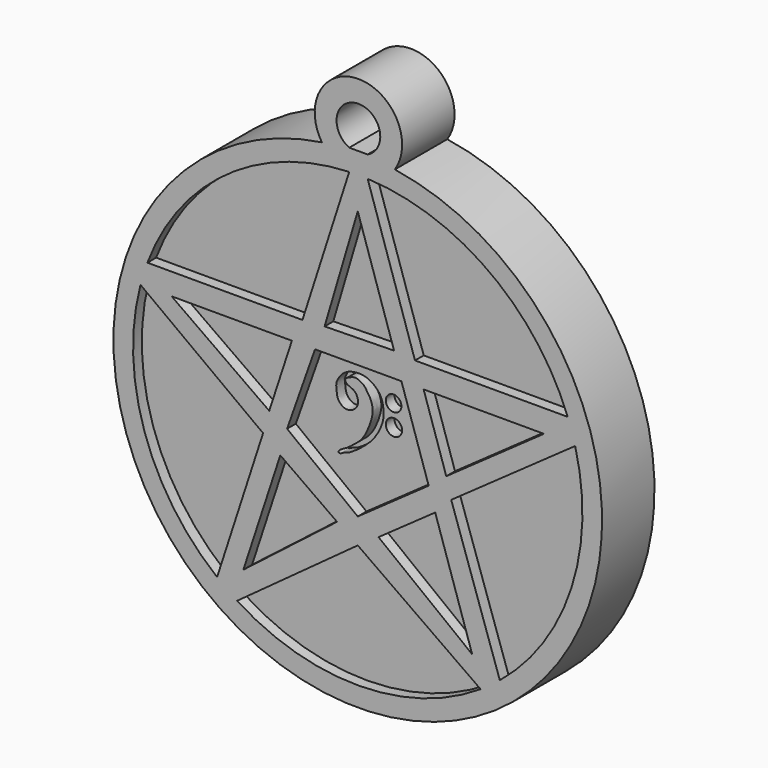
from build123d import *

# Parameters (mm, degrees)
F0_R     = 0.7479592016
F0_R_2   = 0.7154556478
F1_DEPTH = 5
F2_DEPTH = 6
F3_DEPTH = 4


with BuildPart() as f1:
    # F0 (on Front) → F1 (new body)
    with BuildSketch(Plane.XZ):
        with BuildLine():
            ThreePointArc((-19.1059168052, 44.601797374), (-22.4284686377, 50.813886651), (-25.7823659332, 44.6186645568))
            ThreePointArc((-25.7823659332, 44.6186645568), (-22.5564916994, 0.1391847961), (-19.1059168052, 44.601797374))
        make_face()
        with BuildLine():
            ThreePointArc((-35.3737242613, 6.4650089014), (-42.0302013856, 16.0637783035), (-42.3847366474, 27.7393667893))
            Line((-42.3847366474, 27.7393667893), (-31.1639953467, 19.4349084049))
            Line((-31.1639953467, 19.4349084049), (-35.3737242613, 6.4650089014))
        make_face(mode=Mode.SUBTRACT)
        Polygon((-39.5360679381, 27.7393667893), (-28.5291355848, 27.7393667893), (-30.6005839361, 21.4172078039), align=None, mode=Mode.SUBTRACT)
        Polygon((-29.5883324513, 18.1647339323), (-24.3974999338, 14.492043294), (-32.9701682877, 7.8432099579), align=None, mode=Mode.SUBTRACT)
        with BuildLine():
            ThreePointArc((-11.2579042464, 5.2817248554), (-22.3822039471, 1.9369301908), (-33.5440937819, 5.1540578687))
            Line((-33.5440937819, 5.1540578687), (-22.5, 13.2103506476))
            Line((-22.5, 13.2103506476), (-11.2579042464, 5.2817248554))
        make_face(mode=Mode.SUBTRACT)
        Polygon((-12.0298317123, 7.8432099579), (-20.6025000662, 14.492043294), (-15.4116675487, 18.1647339323), align=None, mode=Mode.SUBTRACT)
        Polygon((-16.0104798027, 20.1302143785), (-22.5, 15.5386580154), (-28.967153281, 20.5017030239), (-26.4105990855, 27.7393667893), (-18.5036101167, 27.7393667893), align=None, mode=Mode.SUBTRACT)
        with BuildLine():
            ThreePointArc((-2.6021278232, 27.6892580129), (-2.9520760141, 16.1178072945), (-9.4976208394, 6.5691540698))
            Line((-9.4976208394, 6.5691540698), (-13.9463264495, 19.6628514677))
            Line((-13.9463264495, 19.6628514677), (-2.6021278232, 27.6892580129))
        make_face(mode=Mode.SUBTRACT)
        Polygon((-14.3994160639, 21.4172078039), (-16.4708644152, 27.7393667893), (-5.4639320619, 27.7393667893), align=None, mode=Mode.SUBTRACT)
        with BuildLine():
            ThreePointArc((-41.7518326466, 29.7263860703), (-34.5291002687, 39.1779633833), (-23.2810519253, 43.0485686552))
            Line((-23.2810519253, 43.0485686552), (-27.5616962463, 29.7263860703))
            Line((-27.5616962463, 29.7263860703), (-41.7518326466, 29.7263860703))
        make_face(mode=Mode.SUBTRACT)
        Polygon((-19.1760000154, 29.9831019124), (-25.5359429866, 29.8663973808), (-22.5, 40.128108114), align=None, mode=Mode.SUBTRACT)
        with BuildLine():
            ThreePointArc((-21.596096248, 43.0435311934), (-10.4589160289, 39.1693135038), (-3.281187186, 29.8137507415))
            Line((-3.281187186, 29.8137507415), (-17.2613734154, 29.8137507415))
            Line((-17.2613734154, 29.8137507415), (-21.596096248, 43.0435311934))
        make_face(mode=Mode.SUBTRACT)
        with BuildLine():
            ThreePointArc((-23.2810519253, 45), (-22.4385740867, 48.813899416), (-21.596096248, 45))
            Line((-21.596096248, 45), (-23.2810519253, 45))
        make_face(mode=Mode.SUBTRACT)
        with BuildLine():
            Line((-27.5616962463, 29.7263860703), (-23.2810519253, 43.0485686552))
            ThreePointArc((-23.2810519253, 43.0485686552), (-34.5291002687, 39.1779633833), (-41.7518326466, 29.7263860703))
            Line((-41.7518326466, 29.7263860703), (-27.5616962463, 29.7263860703))
        make_face()
        with BuildLine():
            Line((-17.2613734154, 29.8137507415), (-3.281187186, 29.8137507415))
            ThreePointArc((-3.281187186, 29.8137507415), (-10.4589160289, 39.1693135038), (-21.596096248, 43.0435311934))
            Line((-21.596096248, 43.0435311934), (-17.2613734154, 29.8137507415))
        make_face()
        with BuildLine():
            Line((-13.9463264495, 19.6628514677), (-9.4976208394, 6.5691540698))
            ThreePointArc((-9.4976208394, 6.5691540698), (-2.9520760141, 16.1178072945), (-2.6021278232, 27.6892580129))
            Line((-2.6021278232, 27.6892580129), (-13.9463264495, 19.6628514677))
        make_face()
        with BuildLine():
            Line((-31.1639953467, 19.4349084049), (-42.3847366474, 27.7393667893))
            ThreePointArc((-42.3847366474, 27.7393667893), (-42.0302013856, 16.0637783035), (-35.3737242613, 6.4650089014))
            Line((-35.3737242613, 6.4650089014), (-31.1639953467, 19.4349084049))
        make_face()
        with BuildLine():
            Line((-22.5, 13.2103506476), (-33.5440937819, 5.1540578687))
            ThreePointArc((-33.5440937819, 5.1540578687), (-22.3822039471, 1.9369301908), (-11.2579042464, 5.2817248554))
            Line((-11.2579042464, 5.2817248554), (-22.5, 13.2103506476))
        make_face()
        Polygon((-28.967153281, 20.5017030239), (-22.5, 15.5386580154), (-16.0104798027, 20.1302143785), (-18.5036101167, 27.7393667893), (-26.4105990855, 27.7393667893), align=None)
        with BuildLine():
            add(Edge.make_bspline(
                [(-24.1368897259, 25.7977508008), (-24.0192526664, 25.8547602817), (-23.8206951319, 25.9246981149), (-23.4993709237, 26.035264187), (-22.9118502468, 25.7752706065), (-22.6454139435, 25.5452303422), (-22.2695101158, 24.9694677434), (-22.0277491804, 24.546582719), (-21.9130452886, 23.9094929922), (-21.9513966063, 23.5295958586), (-22.0803883734, 22.8741580146), (-22.6121756403, 21.5801117775), (-23.1940389074, 20.9128444702), (-23.7773781953, 20.4703212241), (-24.3564861124, 19.9975043004), (-25.1148150446, 19.6823758793), (-25.0057622775, 19.3161669868), (-24.46480957, 19.7003306914), (-24.1763038032, 19.6457608485), (-22.5233429796, 20.7864962244), (-21.4327424976, 22.0526293772), (-20.8511128391, 23.5323004136), (-20.970949499, 24.5869666942), (-21.1707513877, 25.3307861717), (-21.8953561674, 26.0982333692), (-22.6989218202, 26.4332313934), (-23.3527478288, 26.4477425249), (-23.9777412447, 26.3556629823), (-24.4377100211, 26.1233476831), (-24.7943158394, 25.854675352), (-25.1025725665, 25.3944840878), (-25.3094748751, 24.9669434146), (-25.22914595, 24.3460425378), (-25.1803259356, 23.7698675478), (-24.7525997744, 23.2849589824), (-24.2410315704, 23.1173649804), (-23.5831143232, 23.3328771925), (-23.2015674218, 23.9382897559), (-23.3224948624, 24.536914912), (-23.5908050552, 24.9136124499), (-23.9778820676, 25.0797645038), (-24.2789970507, 25.1952998813), (-24.411275591, 25.3540581553), (-24.5097889288, 25.5910854375), (-24.2621743389, 25.7370351491), (-24.1368897259, 25.7977508008)],
                knots=[0, 0, 0, 0, 0.0173962531, 0.0342740902, 0.0573082931, 0.0755347102, 0.0996042031, 0.1210693965, 0.1443872224, 0.1625076754, 0.186529852, 0.2218263186, 0.2499832154, 0.27485898, 0.3015437244, 0.3271293918, 0.3393392565, 0.3609389604, 0.3774540175, 0.4179104228, 0.4581642864, 0.4947647039, 0.5247635473, 0.5505216211, 0.580539966, 0.60808793, 0.6319530915, 0.6554250636, 0.6765417388, 0.6963148145, 0.7182156124, 0.7385178801, 0.7616697228, 0.7843150308, 0.8073555091, 0.828578249, 0.8524486773, 0.8766600199, 0.8991917039, 0.9190268914, 0.9381939111, 0.9548815349, 0.9682308397, 0.9814728212, 1, 1, 1, 1], degree=3))
        make_face(mode=Mode.SUBTRACT)
        with Locations((-19.9897103012, 23.1271144003)):
            Circle(F0_R, mode=Mode.SUBTRACT)
        with Locations((-20.0196485966, 25.0581968576)):
            Circle(F0_R_2, mode=Mode.SUBTRACT)
        Polygon((-5.4639320619, 27.7393667893), (-16.4708644152, 27.7393667893), (-14.3994160639, 21.4172078039), align=None)
        Polygon((-30.6005839361, 21.4172078039), (-28.5291355848, 27.7393667893), (-39.5360679381, 27.7393667893), align=None)
        Polygon((-32.9701682877, 7.8432099579), (-24.3974999338, 14.492043294), (-29.5883324513, 18.1647339323), align=None)
        Polygon((-15.4116675487, 18.1647339323), (-20.6025000662, 14.492043294), (-12.0298317123, 7.8432099579), align=None)
        Polygon((-22.5, 40.128108114), (-25.5359429866, 29.8663973808), (-19.1760000154, 29.9831019124), align=None)
    extrude(amount=F1_DEPTH)

    # F0 (on Front) → F2 (join)
    with BuildSketch(Plane.XZ):
        with BuildLine():
            ThreePointArc((-19.1059168052, 44.601797374), (-22.4284686377, 50.813886651), (-25.7823659332, 44.6186645568))
            ThreePointArc((-25.7823659332, 44.6186645568), (-22.5564916994, 0.1391847961), (-19.1059168052, 44.601797374))
        make_face()
        with BuildLine():
            ThreePointArc((-35.3737242613, 6.4650089014), (-42.0302013856, 16.0637783035), (-42.3847366474, 27.7393667893))
            Line((-42.3847366474, 27.7393667893), (-31.1639953467, 19.4349084049))
            Line((-31.1639953467, 19.4349084049), (-35.3737242613, 6.4650089014))
        make_face(mode=Mode.SUBTRACT)
        Polygon((-39.5360679381, 27.7393667893), (-28.5291355848, 27.7393667893), (-30.6005839361, 21.4172078039), align=None, mode=Mode.SUBTRACT)
        Polygon((-29.5883324513, 18.1647339323), (-24.3974999338, 14.492043294), (-32.9701682877, 7.8432099579), align=None, mode=Mode.SUBTRACT)
        with BuildLine():
            ThreePointArc((-11.2579042464, 5.2817248554), (-22.3822039471, 1.9369301908), (-33.5440937819, 5.1540578687))
            Line((-33.5440937819, 5.1540578687), (-22.5, 13.2103506476))
            Line((-22.5, 13.2103506476), (-11.2579042464, 5.2817248554))
        make_face(mode=Mode.SUBTRACT)
        Polygon((-12.0298317123, 7.8432099579), (-20.6025000662, 14.492043294), (-15.4116675487, 18.1647339323), align=None, mode=Mode.SUBTRACT)
        Polygon((-16.0104798027, 20.1302143785), (-22.5, 15.5386580154), (-28.967153281, 20.5017030239), (-26.4105990855, 27.7393667893), (-18.5036101167, 27.7393667893), align=None, mode=Mode.SUBTRACT)
        with BuildLine():
            ThreePointArc((-2.6021278232, 27.6892580129), (-2.9520760141, 16.1178072945), (-9.4976208394, 6.5691540698))
            Line((-9.4976208394, 6.5691540698), (-13.9463264495, 19.6628514677))
            Line((-13.9463264495, 19.6628514677), (-2.6021278232, 27.6892580129))
        make_face(mode=Mode.SUBTRACT)
        Polygon((-14.3994160639, 21.4172078039), (-16.4708644152, 27.7393667893), (-5.4639320619, 27.7393667893), align=None, mode=Mode.SUBTRACT)
        with BuildLine():
            ThreePointArc((-41.7518326466, 29.7263860703), (-34.5291002687, 39.1779633833), (-23.2810519253, 43.0485686552))
            Line((-23.2810519253, 43.0485686552), (-27.5616962463, 29.7263860703))
            Line((-27.5616962463, 29.7263860703), (-41.7518326466, 29.7263860703))
        make_face(mode=Mode.SUBTRACT)
        Polygon((-19.1760000154, 29.9831019124), (-25.5359429866, 29.8663973808), (-22.5, 40.128108114), align=None, mode=Mode.SUBTRACT)
        with BuildLine():
            ThreePointArc((-21.596096248, 43.0435311934), (-10.4589160289, 39.1693135038), (-3.281187186, 29.8137507415))
            Line((-3.281187186, 29.8137507415), (-17.2613734154, 29.8137507415))
            Line((-17.2613734154, 29.8137507415), (-21.596096248, 43.0435311934))
        make_face(mode=Mode.SUBTRACT)
        with BuildLine():
            ThreePointArc((-23.2810519253, 45), (-22.4385740867, 48.813899416), (-21.596096248, 45))
            Line((-21.596096248, 45), (-23.2810519253, 45))
        make_face(mode=Mode.SUBTRACT)
    extrude(amount=F2_DEPTH)

    # F0 (on Front) → F3 (join)
    with BuildSketch(Plane.XZ):
        with BuildLine():
            add(Edge.make_bspline(
                [(-24.1368897259, 25.7977508008), (-24.0192526664, 25.8547602817), (-23.8206951319, 25.9246981149), (-23.4993709237, 26.035264187), (-22.9118502468, 25.7752706065), (-22.6454139435, 25.5452303422), (-22.2695101158, 24.9694677434), (-22.0277491804, 24.546582719), (-21.9130452886, 23.9094929922), (-21.9513966063, 23.5295958586), (-22.0803883734, 22.8741580146), (-22.6121756403, 21.5801117775), (-23.1940389074, 20.9128444702), (-23.7773781953, 20.4703212241), (-24.3564861124, 19.9975043004), (-25.1148150446, 19.6823758793), (-25.0057622775, 19.3161669868), (-24.46480957, 19.7003306914), (-24.1763038032, 19.6457608485), (-22.5233429796, 20.7864962244), (-21.4327424976, 22.0526293772), (-20.8511128391, 23.5323004136), (-20.970949499, 24.5869666942), (-21.1707513877, 25.3307861717), (-21.8953561674, 26.0982333692), (-22.6989218202, 26.4332313934), (-23.3527478288, 26.4477425249), (-23.9777412447, 26.3556629823), (-24.4377100211, 26.1233476831), (-24.7943158394, 25.854675352), (-25.1025725665, 25.3944840878), (-25.3094748751, 24.9669434146), (-25.22914595, 24.3460425378), (-25.1803259356, 23.7698675478), (-24.7525997744, 23.2849589824), (-24.2410315704, 23.1173649804), (-23.5831143232, 23.3328771925), (-23.2015674218, 23.9382897559), (-23.3224948624, 24.536914912), (-23.5908050552, 24.9136124499), (-23.9778820676, 25.0797645038), (-24.2789970507, 25.1952998813), (-24.411275591, 25.3540581553), (-24.5097889288, 25.5910854375), (-24.2621743389, 25.7370351491), (-24.1368897259, 25.7977508008)],
                knots=[0, 0, 0, 0, 0.0173962531, 0.0342740902, 0.0573082931, 0.0755347102, 0.0996042031, 0.1210693965, 0.1443872224, 0.1625076754, 0.186529852, 0.2218263186, 0.2499832154, 0.27485898, 0.3015437244, 0.3271293918, 0.3393392565, 0.3609389604, 0.3774540175, 0.4179104228, 0.4581642864, 0.4947647039, 0.5247635473, 0.5505216211, 0.580539966, 0.60808793, 0.6319530915, 0.6554250636, 0.6765417388, 0.6963148145, 0.7182156124, 0.7385178801, 0.7616697228, 0.7843150308, 0.8073555091, 0.828578249, 0.8524486773, 0.8766600199, 0.8991917039, 0.9190268914, 0.9381939111, 0.9548815349, 0.9682308397, 0.9814728212, 1, 1, 1, 1], degree=3))
        make_face()
        with Locations((-20.0196485966, 25.0581968576)):
            Circle(F0_R_2)
        with Locations((-19.9897103012, 23.1271144003)):
            Circle(F0_R)
    extrude(amount=F3_DEPTH)


solid = f1.part
